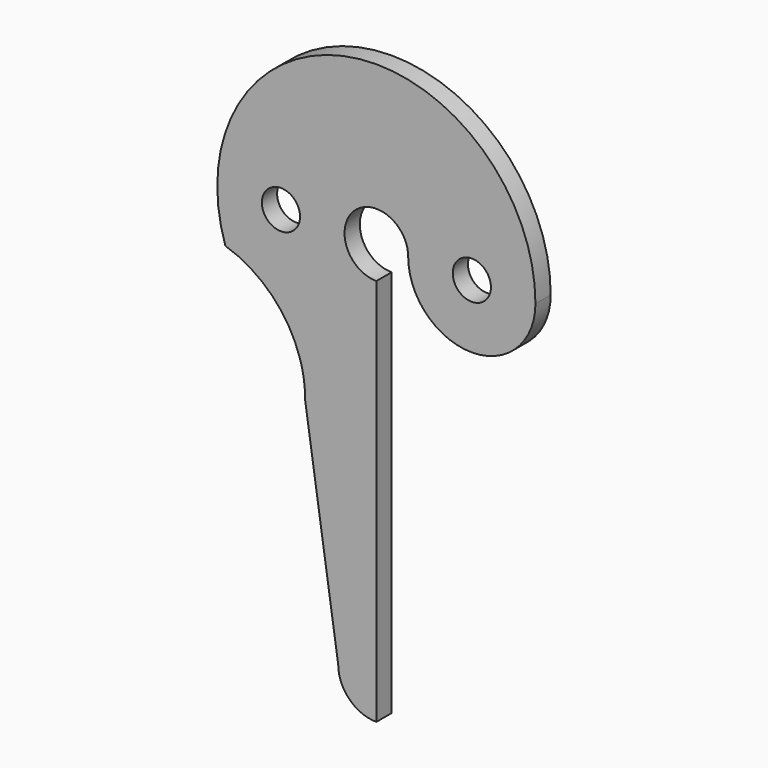
from build123d import *

# Parameters (mm, degrees)
F0_R     = 3
F1_DEPTH = 3


with BuildPart() as f1:
    # F0 (on Front) → F1 (new body)
    with BuildSketch(Plane.XZ):
        with BuildLine():
            ThreePointArc((5, 0), (15, -10), (25, 0))
            ThreePointArc((25, 0), (-3.973005, 24.682286), (-23.737219, -7.845027))
            ThreePointArc((-23.737219, -7.845027), (-16.429299, -12.302553), (-12.006778, -19.631709))
            ThreePointArc((-12.006778, -19.631709), (-11.653909, -20.929515), (-11.398926, -22.250044))
            ThreePointArc((-11.398926, -22.250044), (-11.235537, -23.687521), (-11.188118, -25.133475))
            Line((-11.188118, -25.133475), (-6, -60))
            ThreePointArc((-6, -60), (-4.242641, -64.242641), (0, -66))
            Line((0, -66), (0, -60))
            Line((0, -60), (0, -5))
            ThreePointArc((0, -5), (-3.535534, 3.535534), (5, 0))
        make_face()
        with Locations((-15, 0)):
            Circle(F0_R, mode=Mode.SUBTRACT)
        with Locations((15, 0)):
            Circle(F0_R, mode=Mode.SUBTRACT)
    extrude(amount=F1_DEPTH)


solid = f1.part
